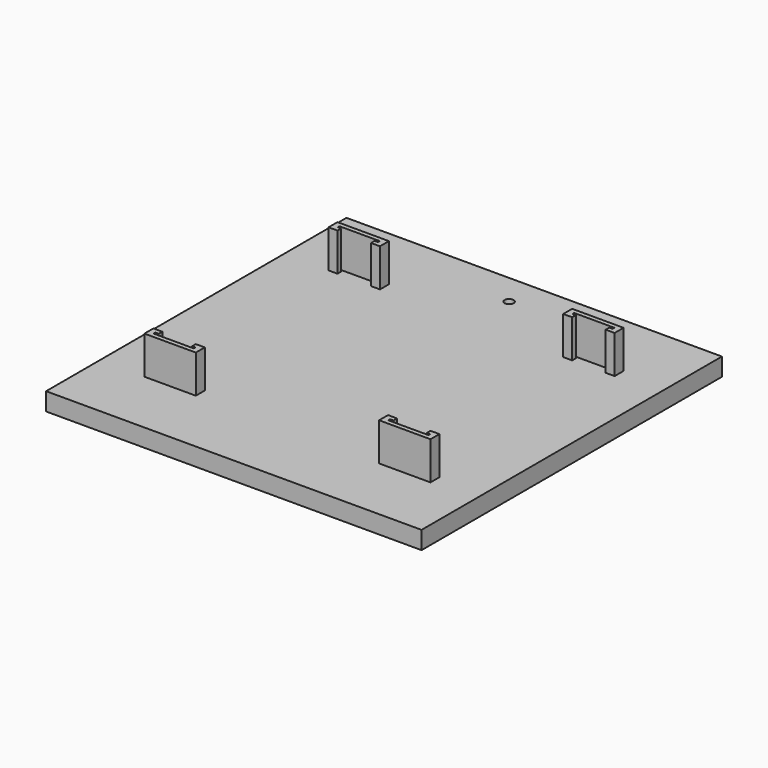
from build123d import *

# Parameters (mm, degrees)
F0_W     = 84
F0_H     = 84
F1_DEPTH = 4
F2_W     = 7.5
F2_H     = 1
F3_DEPTH = 8.5
F4_R     = 1
F5_DEPTH = 25
F6_START = -2
F4_R_2   = 1.5
F6_DEPTH = 23
F7_SIZE  = 1.5


with BuildPart() as f1:
    # F0 (on Top) → F1 (new body)
    with BuildSketch(Plane.XY):
        Rectangle(F0_W, F0_H)
        Rectangle(F0_W, F0_H)
    extrude(amount=F1_DEPTH)

    # F2 (on face) → F3 (join)
    with BuildSketch(Plane.XY.offset(4)):
        Polygon((-30, 27), (-32, 27), (-32, 24.5), (-30, 24.5), (-30, 25.5), (-30.75, 25.5), (-30.75, 26), (-30, 26), align=None)
        with Locations((-26.25, 26.5)):
            Rectangle(F2_W, F2_H)
        Polygon((-20.5, 27), (-22.5, 27), (-22.5, 26), (-21.75, 26), (-21.75, 25.5), (-22.5, 25.5), (-22.5, 24.5), (-20.5, 24.5), align=None)
        Polygon((-32, -27), (-30, -27), (-30, -26), (-30.75, -26), (-30.75, -25.5), (-30, -25.5), (-30, -24.5), (-32, -24.5), align=None)
        with Locations((-26.25, -26.5)):
            Rectangle(F2_W, F2_H)
        Polygon((-22.5, -27), (-20.5, -27), (-20.5, -24.5), (-22.5, -24.5), (-22.5, -25.5), (-21.75, -25.5), (-21.75, -26), (-22.5, -26), align=None)
        Polygon((22.5, 27), (20.5, 27), (20.5, 24.5), (22.5, 24.5), (22.5, 25.5), (21.75, 25.5), (21.75, 26), (22.5, 26), align=None)
        with Locations((26.25, 26.5)):
            Rectangle(F2_W, F2_H)
        Polygon((32, 27), (30, 27), (30, 26), (30.75, 26), (30.75, 25.5), (30, 25.5), (30, 24.5), (32, 24.5), align=None)
        Polygon((20.5, -27), (22.5, -27), (22.5, -26), (21.75, -26), (21.75, -25.5), (22.5, -25.5), (22.5, -24.5), (20.5, -24.5), align=None)
        with Locations((26.25, -26.5)):
            Rectangle(F2_W, F2_H)
        Polygon((30, -27), (32, -27), (32, -24.5), (30, -24.5), (30, -25.5), (30.75, -25.5), (30.75, -26), (30, -26), align=None)
    extrude(amount=F3_DEPTH)

    # F4 (on face) → F5 (cut)
    with BuildSketch(Plane.XY.offset(4)):
        with Locations((0, 35)):
            Circle(F4_R)
    extrude(amount=-F5_DEPTH, mode=Mode.SUBTRACT)

    # F4 (on face) → F6 (cut)
    with BuildSketch(Plane.XY.offset(4).offset(F6_START)):
        with Locations((0, 35)):
            Circle(F4_R_2)
        with Locations((0, 35)):
            Circle(F4_R, mode=Mode.SUBTRACT)
    extrude(amount=-F6_DEPTH, mode=Mode.SUBTRACT)

    # F7
    f7_edges = [f1.edges().sort_by_distance(p)[0] for p in [
        (-1.5, 35, 0),
    ]]
    chamfer(f7_edges, length=F7_SIZE)


solid = f1.part
